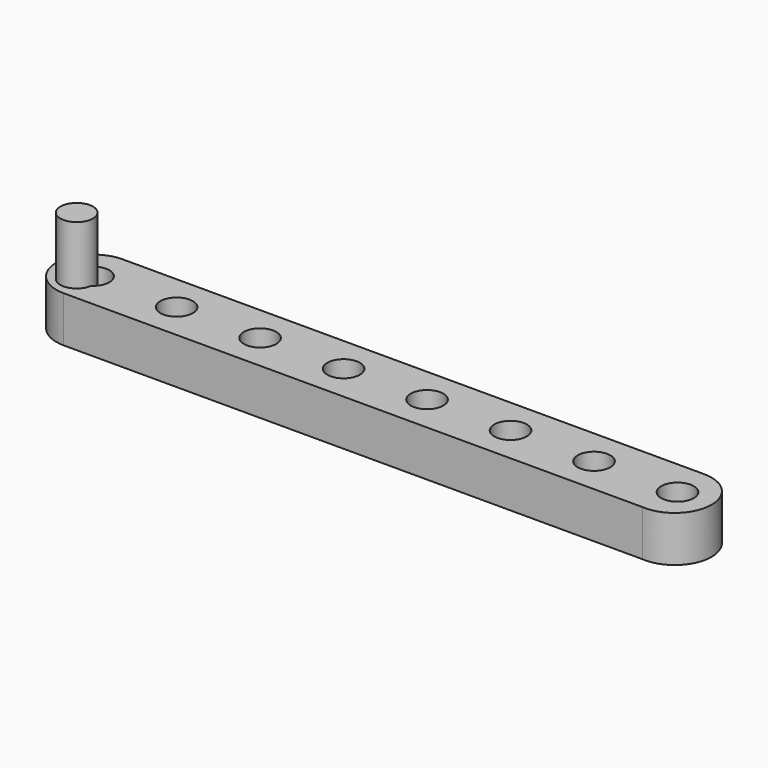
from build123d import *

# Parameters (mm, degrees)
F1_DEPTH = 11.176
F2_R     = 3.958604
F3_DEPTH = 25.4
F4_R     = 3.9624
F5_DEPTH = 25.4


with BuildPart() as f1:
    # F0 (on Top) → F1 (new body)
    with BuildSketch(Plane.XY):
        with BuildLine():
            ThreePointArc((-65.091506, 17.915282), (-74.049147, 8.957641), (-65.091506, 0))
            Line((-65.091506, 0), (75.795665, 0))
            ThreePointArc((75.795665, 0), (85.455802, 8.595998), (76.491408, 17.915282))
            Line((76.491408, 17.915282), (-65.091506, 17.915282))
        make_face()
    extrude(amount=F1_DEPTH)

    # F2 (on face) → F3 (cut)
    with BuildSketch(Plane(origin=(0, 0, 0), x_dir=(1, 0, 0), z_dir=(0, 0, -1))):
        with Locations((-24.451506, -8.957641)):
            Circle(F2_R)
        with Locations((-4.131506, -8.957641)):
            Circle(F2_R)
        with Locations((16.188494, -8.957641)):
            Circle(F2_R)
        with Locations((36.508494, -8.957641)):
            Circle(F2_R)
        with Locations((56.828494, -8.957641)):
            Circle(F2_R)
        with Locations((77.148494, -8.957641)):
            Circle(F2_R)
        with Locations((-44.771506, -8.957641)):
            Circle(F2_R)
        with Locations((-65.091506, -8.957641)):
            Circle(F2_R)
    extrude(amount=-F3_DEPTH, mode=Mode.SUBTRACT)


with BuildPart() as f5:
    # F4 (on Top) → F5 (new body)
    with BuildSketch(Plane.XY):
        with Locations((-66.855967, 6.149523)):
            Circle(F4_R)
    extrude(amount=F5_DEPTH)


solid = Compound([f1.part, f5.part])
